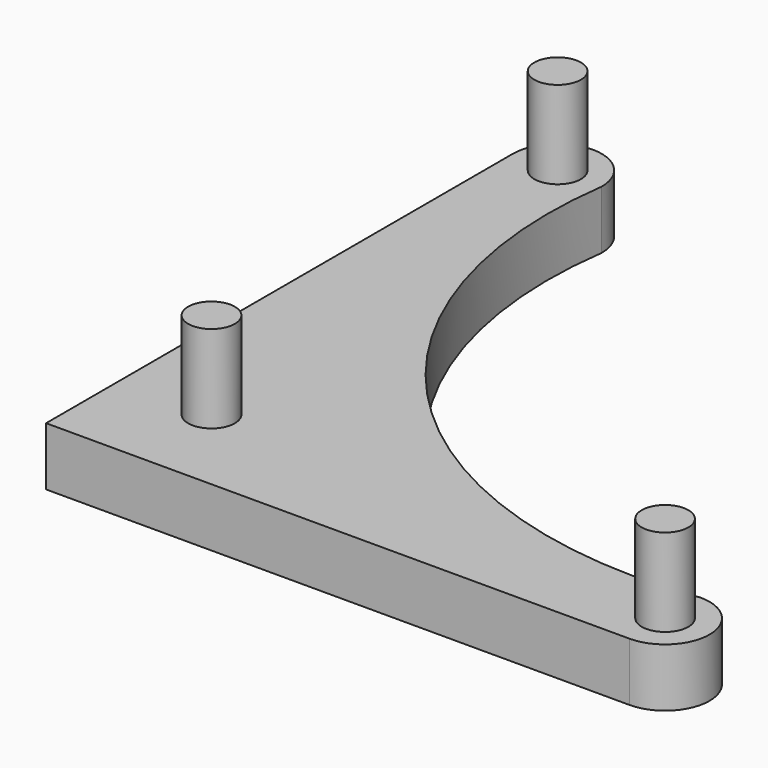
from build123d import *

# Parameters (mm, degrees)
F0_R     = 2.032
F1_DEPTH = 5.08
F2_DEPTH = 12.7


with BuildPart() as f1:
    # F0 (on Top) → F1 (new body)
    with BuildSketch(Plane.XY):
        with BuildLine():
            ThreePointArc((-28.18511, 37.306227), (-32.054414, 41.175531), (-35.923718, 37.306227))
            Line((-35.923718, 37.306227), (-35.923718, -13.493773))
            Line((-35.923718, -13.493773), (14.876282, -13.493773))
            ThreePointArc((14.876282, -13.493773), (18.745586, -9.624469), (14.876282, -5.755165))
            ThreePointArc((14.876282, -5.755165), (-17.401538, 5.028408), (-28.18511, 37.306227))
        make_face()
        with BuildLine():
            ThreePointArc((-29.954718, -5.492773), (-27.922718, -3.460773), (-25.890718, -5.492773))
            ThreePointArc((-25.890718, -5.492773), (-27.922718, -7.524773), (-29.954718, -5.492773))
        make_face(mode=Mode.SUBTRACT)
        with Locations((14.876282, -9.624469)):
            Circle(F0_R, mode=Mode.SUBTRACT)
        with Locations((-32.004304, 37.282259)):
            Circle(F0_R, mode=Mode.SUBTRACT)
    extrude(amount=F1_DEPTH)

    # F0 (on Top) → F2 (join)
    with BuildSketch(Plane.XY):
        with BuildLine():
            ThreePointArc((-29.954718, -5.492773), (-27.922718, -7.524773), (-25.890718, -5.492773))
            ThreePointArc((-25.890718, -5.492773), (-27.922718, -3.460773), (-29.954718, -5.492773))
        make_face()
        with Locations((-32.004304, 37.282259)):
            Circle(F0_R)
        with Locations((14.876282, -9.624469)):
            Circle(F0_R)
    extrude(amount=F2_DEPTH)


solid = f1.part
